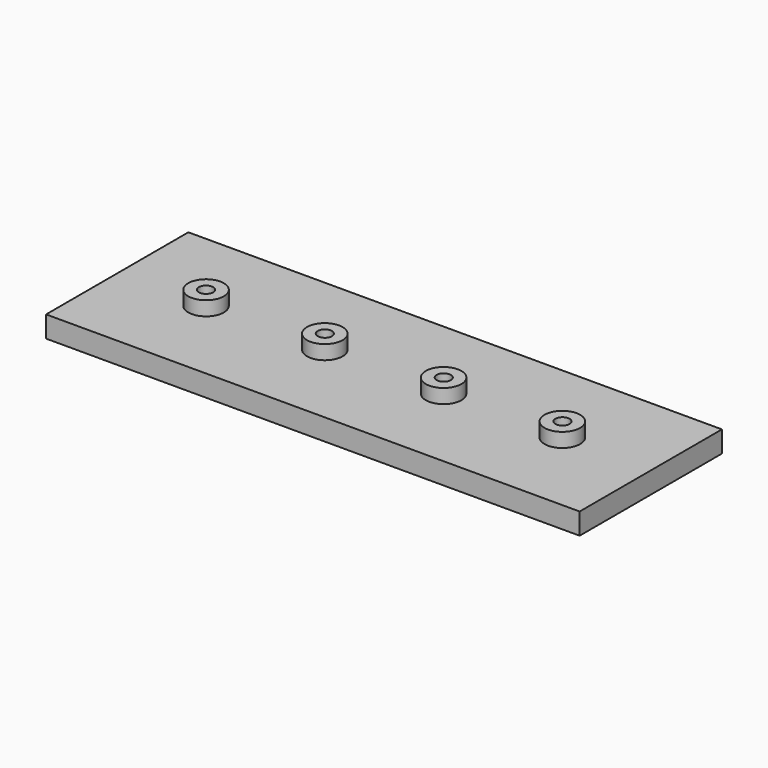
from build123d import *

# Parameters (mm, degrees)
F0_W     = 75
F0_H     = 25
F1_DEPTH = 3
F2_R     = 2.5
F3_DEPTH = 5
F4_R     = 1
F5_DEPTH = 3


with BuildPart() as f1:
    # F0 (on Top) → F1 (new body)
    with BuildSketch(Plane.XY):
        with Locations((0.05, -0.046321)):
            Rectangle(F0_W, F0_H)
    extrude(amount=F1_DEPTH)

    # F2 (on Top) → F3 (join)
    with BuildSketch(Plane.XY):
        with Locations((-24.999432, 0)):
            Circle(F2_R)
        with Locations((-8.305821, 0)):
            Circle(F2_R)
        with Locations((8.388246, 0)):
            Circle(F2_R)
        with Locations((25.083415, 0)):
            Circle(F2_R)
    extrude(amount=F3_DEPTH)

    # F4 (on face) → F5 (cut)
    with BuildSketch(Plane.XY.offset(5)):
        with Locations((-24.999432, 0)):
            Circle(F4_R)
        with Locations((-8.304862, 0)):
            Circle(F4_R)
        with Locations((8.406557, 0)):
            Circle(F4_R)
        with Locations((25.101803, 0)):
            Circle(F4_R)
    extrude(amount=-F5_DEPTH, mode=Mode.SUBTRACT)


solid = f1.part
